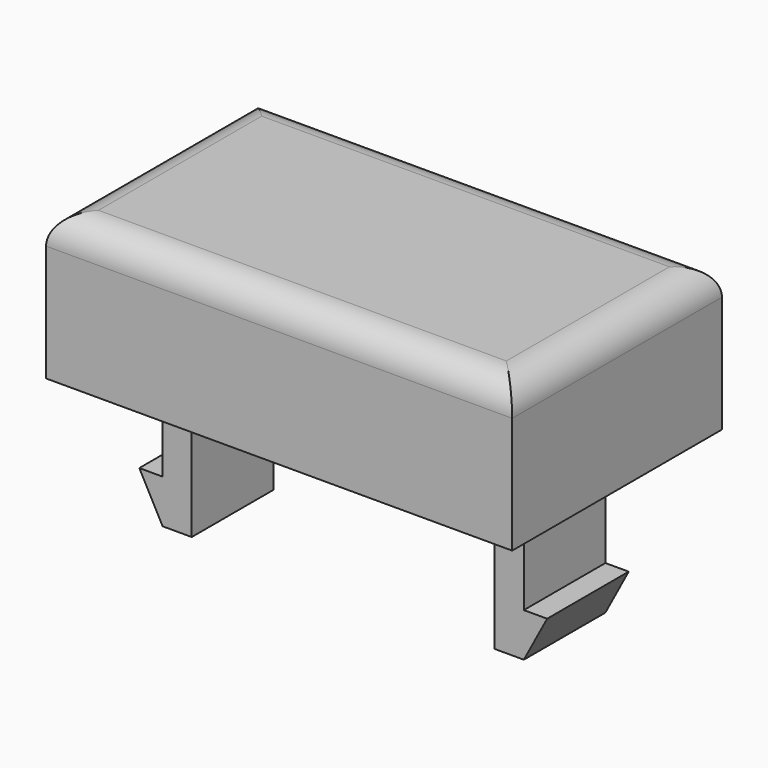
from build123d import *

# Parameters (mm, degrees)
SKETCH036_W     = 16
SKETCH036_H     = 9
PAD021_DEPTH    = 5
SKETCH037_W     = 14.4
SKETCH037_H     = 7.4
POCKET013_DEPTH = 4
SKETCH038_W     = 1
SKETCH038_H     = 3.5
PAD022_DEPTH    = 9
PAD023_DEPTH    = 3.5
SKETCH041_R     = 1
PAD025_DEPTH    = 3.4
FILLET002_R     = 1
FILLET007_R     = 0.7
FILLET011_R     = 0.8


with BuildPart() as part:
    # Sketch036 → Pad021 (new body)
    with BuildSketch(Plane.XY):
        Rectangle(SKETCH036_W, SKETCH036_H)
    extrude(amount=PAD021_DEPTH)

    # Sketch037 (on Face5 of Pad021) → Pocket013 (cut)
    with BuildSketch(Plane(origin=(0, 0, 0), x_dir=(1, 0, 0), z_dir=(0, 0, -1))):
        Rectangle(SKETCH037_W, SKETCH037_H)
    extrude(amount=-POCKET013_DEPTH, mode=Mode.SUBTRACT)

    # Sketch038 (on Face11 of Pocket013) → Pad022 (join)
    with BuildSketch(Plane(origin=(0, 0, 4), x_dir=(1, 0, 0), z_dir=(0, 0, -1))):
        with Locations((-5.7, 0)):
            Rectangle(SKETCH038_W, SKETCH038_H)
        with Locations((5.7, 0)):
            Rectangle(SKETCH038_W, SKETCH038_H)
    extrude(amount=PAD022_DEPTH)

    # Sketch039 (on Face17 of Pad022) → Pad023 (join)
    with BuildSketch(Plane(origin=(0, 1.75, 0), x_dir=(-1, 0, 0), z_dir=(0, 1, 0))):
        Polygon((-6.2, -3.5), (-7, -3.5), (-6.2, -5), align=None)
        Polygon((6.2, -3.5), (7, -3.5), (6.2, -5), align=None)
    extrude(amount=-PAD023_DEPTH)

    # Sketch041 (on Face11 of Pad023) → Pad025 (join)
    with BuildSketch(Plane(origin=(0, 0, 4), x_dir=(1, 0, 0), z_dir=(0, 0, -1))):
        Circle(SKETCH041_R)
    extrude(amount=PAD025_DEPTH)

    # Fillet002
    fillet002_edges = [part.edges().sort_by_distance(p)[0] for p in [
        (0, 4.5, 5),
        (-8, 0, 5),
        (0, -4.5, 5),
        (8, 0, 5),
    ]]
    fillet(fillet002_edges, radius=FILLET002_R)

    # Fillet007
    fillet007_edges = [part.edges().sort_by_distance(p)[0] for p in [
        (-1, 0, 4),
    ]]
    fillet(fillet007_edges, radius=FILLET007_R)

    # Fillet011
    fillet011_edges = [part.edges().sort_by_distance(p)[0] for p in [
        (5.2, 0, 4),
        (5.7, 1.75, 4),
        (6.2, 0, 4),
        (5.7, -1.75, 4),
        (-5.7, -1.75, 4),
        (-6.2, 0, 4),
        (-5.2, 0, 4),
        (-5.7, 1.75, 4),
    ]]
    fillet(fillet011_edges, radius=FILLET011_R)


with BuildPart() as part_1:
    # Body008 placement: moved
    add(part.part.moved(Location((-33, -44, 15))))


with BuildPart() as part_2:
    # Clone004 placement: moved
    add(part_1.part.moved(Location((0, 0, 4))))


with BuildPart() as part_3:
    # Body013 placement: moved
    add(part_2.part.moved(Location((85, 0, -4))))


solid = part_3.part
